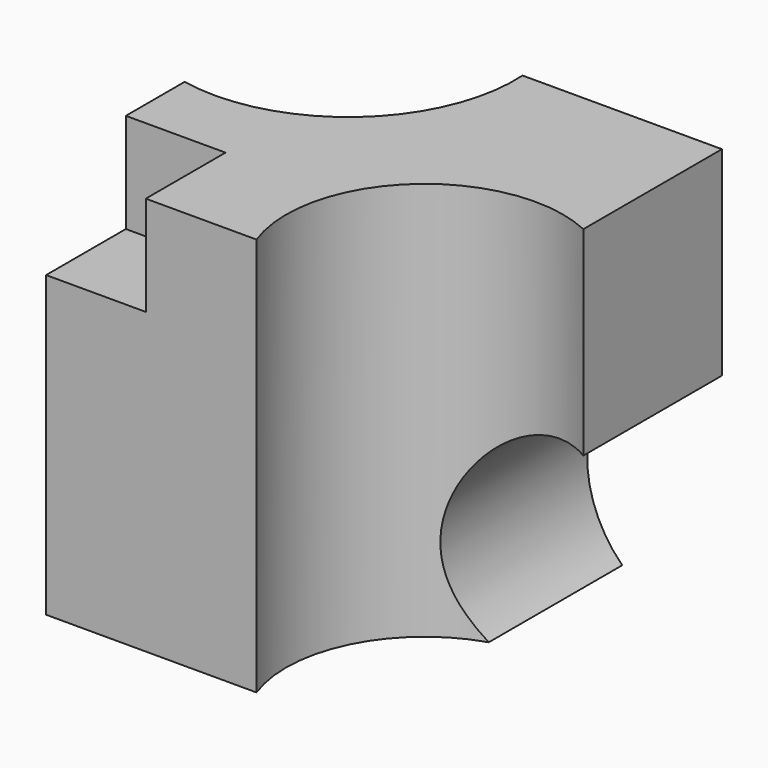
from build123d import *

# Parameters (mm, degrees)
F1_DEPTH = 50.8
F2_W     = 12.7
F2_H     = 12.7
F3_DEPTH = 12.7
F5_DEPTH = 25.4


with BuildPart() as f1:
    # F0 (on Top) → F1 (new body)
    with BuildSketch(Plane.XY):
        with BuildLine():
            Line((21.995319, 22.530525), (-3.404681, 22.530525))
            ThreePointArc((-3.404681, 22.530525), (-10.684751, 5.258633), (-28.804681, 0.464275))
            Line((-28.804681, 0.464275), (-28.804681, -21.601974))
            Line((-28.804681, -21.601974), (-1.992511, -21.601974))
            ThreePointArc((-1.992511, -21.601974), (2.643049, -2.569712), (21.995319, 0.464275))
            Line((21.995319, 0.464275), (21.995319, 22.530525))
        make_face()
    extrude(amount=F1_DEPTH)

    # F2 (on face) → F3 (cut)
    with BuildSketch(Plane(origin=(-28.804681, 0, 0), x_dir=(0, -1, 0), z_dir=(-1, 0, 0))):
        with Locations((15.251974, 44.45)):
            Rectangle(F2_W, F2_H)
    extrude(amount=-F3_DEPTH, mode=Mode.SUBTRACT)

    # F4 (on face) → F5 (cut)
    with BuildSketch(Plane(origin=(0, 22.530525, 0), x_dir=(-1, 0, 0), z_dir=(0, 1, 0))):
        with BuildLine():
            Line((-21.995319, 0), (-9.295319, 0))
            ThreePointArc((-9.295319, 0), (-6.407691, 17.318814), (-21.995319, 25.4))
            Line((-21.995319, 25.4), (-21.995319, 0))
        make_face()
    extrude(amount=-F5_DEPTH, mode=Mode.SUBTRACT)


solid = f1.part
